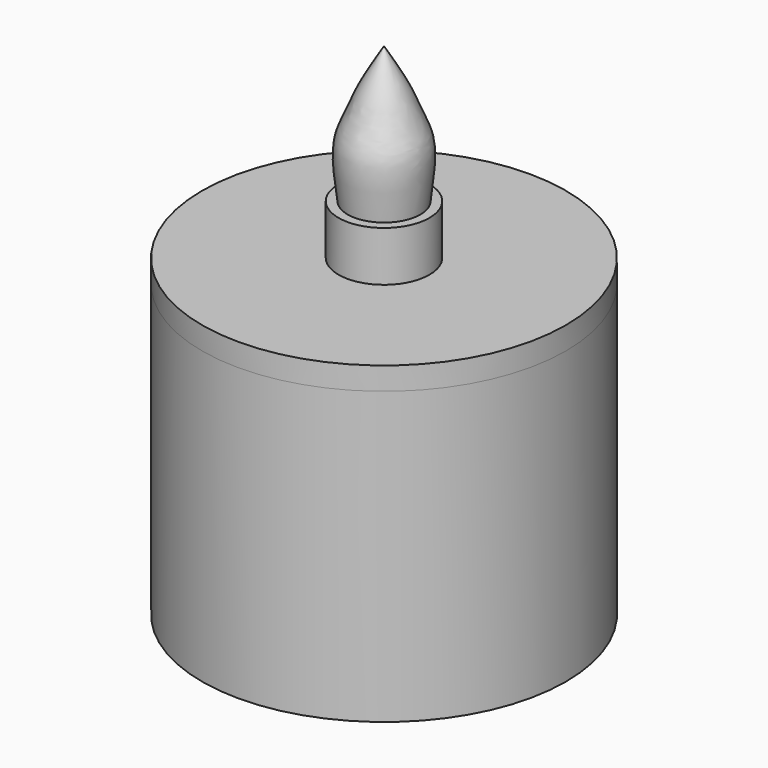
from build123d import *

# Parameters (mm, degrees)
F0_R      = 20
F1_DEPTH  = 32
F2_R      = 17
F3_DEPTH  = 27
F4_R      = 20
F5_DEPTH  = 2.5
F6_R      = 16.75
F7_DEPTH  = 2
F8_R      = 5
F9_DEPTH  = 34.501
F10_R     = 5
F10_R_2   = 4
F11_DEPTH = 10


with BuildPart() as f1:
    # F0 (on Top) → F1 (new body)
    with BuildSketch(Plane.XY):
        Circle(F0_R)
    extrude(amount=F1_DEPTH)

    # F2 (on face) → F3 (cut)
    with BuildSketch(Plane.XY.offset(32)):
        Circle(F2_R)
    extrude(amount=-F3_DEPTH, mode=Mode.SUBTRACT)


with BuildPart() as f5:
    # F4 (on face) → F5 (new body)
    with BuildSketch(Plane.XY.offset(32)):
        Circle(F4_R)
    extrude(amount=F5_DEPTH)

    # F6 (on face) → F7 (join)
    with BuildSketch(Plane(origin=(0, 0, 32), x_dir=(1, 0, 0), z_dir=(0, 0, -1))):
        Circle(F6_R)
    extrude(amount=F7_DEPTH)

    # F8 (on face) → F9 (cut, through all)
    with BuildSketch(Plane.XY.offset(34.5)):
        Circle(F8_R)
    extrude(amount=-F9_DEPTH, mode=Mode.SUBTRACT)


with BuildPart() as f11:
    # F10 (on face) → F11 (new body)
    with BuildSketch(Plane(origin=(0, 0, 30), x_dir=(1, 0, 0), z_dir=(0, 0, -1))):
        Circle(F10_R)
        Circle(F10_R_2, mode=Mode.SUBTRACT)
    extrude(amount=-F11_DEPTH)


with BuildPart() as f13:
    # F12 (on Front) → F13 (revolve)
    with BuildSketch(Plane.XZ):
        with BuildLine():
            Line((0, 40), (4, 40))
            add(Edge.make_bspline(
                [(4, 40), (4.7016184977, 44.8760034117), (4.2048103253, 46.6204646024), (2.6956200107, 49.976672278), (2.3305378854, 51.1800907552), (0, 55)],
                knots=[0, 0, 0, 0, 0.4002344353, 0.6243843817, 1, 1, 1, 1], degree=3))
            Line((0, 55), (0, 40))
        make_face()
    revolve(axis=Axis((0, 0, 47.5), (0, 0, 1)))


solid = Compound([f1.part, f5.part, f11.part, f13.part])
